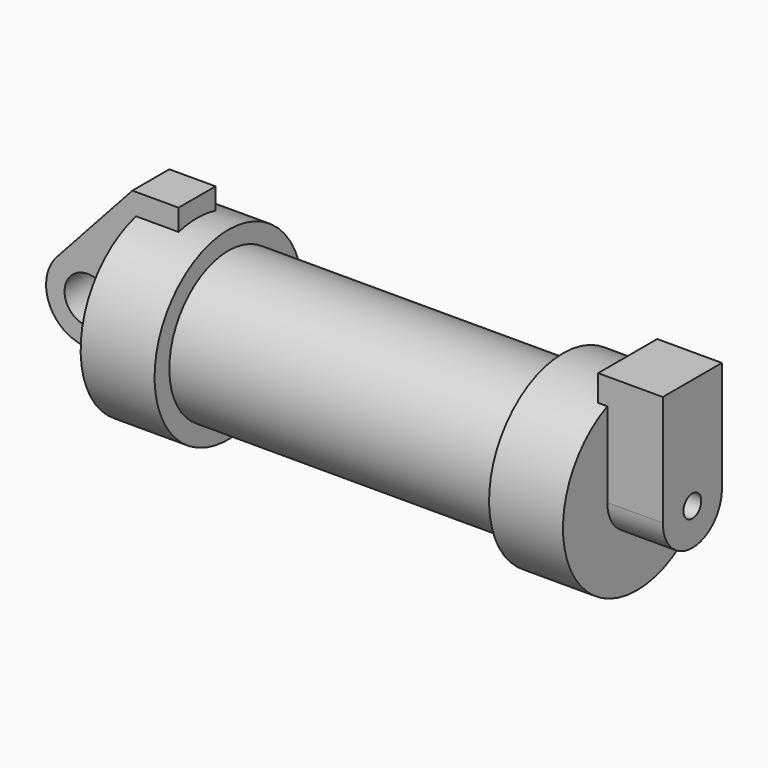
from build123d import *

# Parameters (mm, degrees)
F0_W          = 5.842
F0_H          = 12.7
F2_R          = 1.524
F3_DEPTH      = 7.62
F3_DEPTH_BACK = 1.27
F0_R          = 3.175
F4_DEPTH      = 3.175


with BuildPart() as f1:
    # F0 (on Front) → F1 (revolve)
    with BuildSketch(Plane.XZ):
        Polygon((5.842, 12.7), (5.842, 0), (66.294, 0), (66.294, 12.7), (56.134, 12.7), (56.134, 10.16), (10.16, 10.16), (10.16, 12.7), align=None)
        with Locations((2.921, 6.35)):
            Rectangle(F0_W, F0_H)
    revolve(axis=Axis((-3.3274, 0, 0), (-1, 0, 0)))

    # F2 (on face) → F3 (join, two sides)
    with BuildSketch(Plane.YZ.offset(66.294)) as f3_sk:
        with BuildLine():
            ThreePointArc((-5.08, 0), (0, -5.08), (5.08, 0))
            ThreePointArc((5.08, 0), (0, 5.08), (-5.08, 0))
        make_face()
        Circle(F2_R, mode=Mode.SUBTRACT)
        with BuildLine():
            ThreePointArc((-5.08, 0), (0, 5.08), (5.08, 0))
            Line((5.08, 0), (5.08, 15.24))
            Line((5.08, 15.24), (-5.08, 15.24))
            Line((-5.08, 15.24), (-5.08, 0))
        make_face()
    extrude(amount=F3_DEPTH)
    extrude(f3_sk.sketch, amount=-F3_DEPTH_BACK)

    # F0 (on Front) → F4 (join, symmetric)
    with BuildSketch(Plane.XZ):
        with BuildLine():
            ThreePointArc((-8.182663, -5.506983), (-3.195791, -4.549339), (-0.9398, 0))
            ThreePointArc((-0.9398, 0), (-4.591961, 5.329721), (-10.88063, 3.847543))
            ThreePointArc((-10.88063, 3.847543), (-12.145978, -1.583727), (-8.182663, -5.506983))
        make_face()
        with Locations((-6.6548, 0)):
            Circle(F0_R, mode=Mode.SUBTRACT)
        with BuildLine():
            Line((-0.9398, 0), (0, 0))
            Line((0, 0), (0, 12.7))
            Line((0, 12.7), (5.842, 12.7))
            Line((5.842, 12.7), (5.842, 15.24))
            Line((5.842, 15.24), (-0.508, 15.24))
            Line((-0.508, 15.24), (-10.88063, 3.847543))
            ThreePointArc((-10.88063, 3.847543), (-4.591961, 5.329721), (-0.9398, 0))
        make_face()
        with BuildLine():
            Line((5.842, 0), (0, 0))
            Line((0, 0), (-0.9398, 0))
            ThreePointArc((-0.9398, 0), (-3.195791, -4.549339), (-8.182663, -5.506983))
            Line((-8.182663, -5.506983), (5.842, -9.398))
            Line((5.842, -9.398), (5.842, 0))
        make_face()
        with Locations((2.921, 6.35)):
            Rectangle(F0_W, F0_H)
    extrude(amount=F4_DEPTH, both=True)


solid = f1.part
